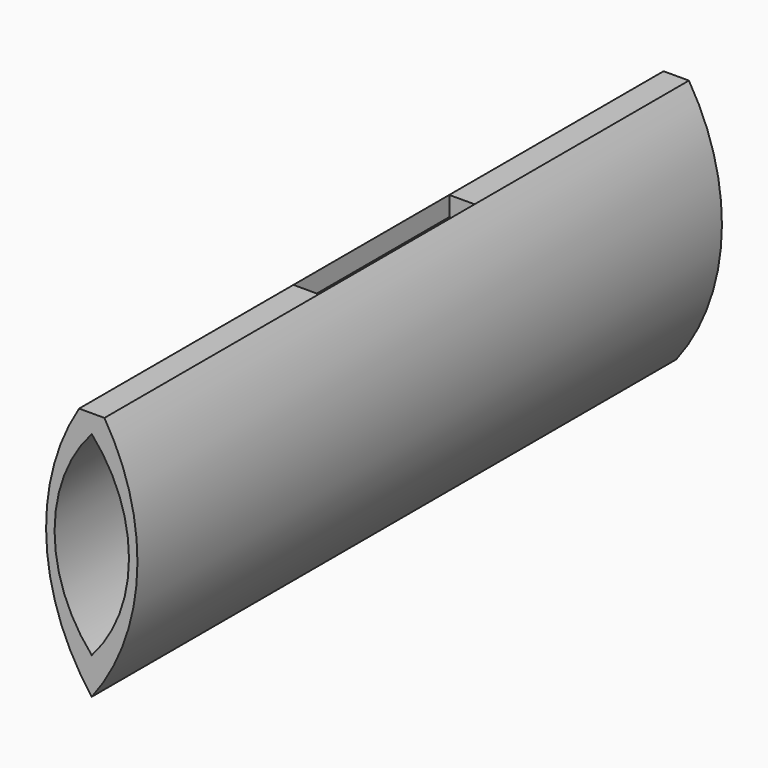
from build123d import *

# Parameters (mm, degrees)
F1_DEPTH = 300
F3_DEPTH = 300
F4_W     = 73.538634
F4_H     = 45.165462
F5_DEPTH = 300
F6_W     = 10.41078
F6_H     = 80
F7_DEPTH = 8


with BuildPart() as f1:
    # F0 (on Front) → F1 (new body)
    with BuildSketch(Plane.XZ):
        with BuildLine():
            ThreePointArc((0, 49.64232), (-18.760966, -5.35768), (0, -60.35768))
            ThreePointArc((0, -60.35768), (18.760966, -5.35768), (0, 49.64232))
        make_face()
    extrude(amount=F1_DEPTH)

    # F2 (on face) → F3 (cut)
    with BuildSketch(Plane.XZ.offset(300)):
        with BuildLine():
            ThreePointArc((0, 34.64232), (-15.27864, -5.35768), (0, -45.35768))
            ThreePointArc((0, -45.35768), (15.27864, -5.35768), (0, 34.64232))
        make_face()
    extrude(amount=-F3_DEPTH, mode=Mode.SUBTRACT)

    # F4 (on face) → F5 (cut)
    with BuildSketch(Plane.XZ.offset(300)):
        with Locations((-1.304593, 64.725051)):
            Rectangle(F4_W, F4_H)
    extrude(amount=-F5_DEPTH, mode=Mode.SUBTRACT)

    # F6 (on face) → F7 (cut)
    with BuildSketch(Plane.XY.offset(42.14232)):
        with Locations((0, -150)):
            Rectangle(F6_W, F6_H)
    extrude(amount=-F7_DEPTH, mode=Mode.SUBTRACT)


solid = f1.part
